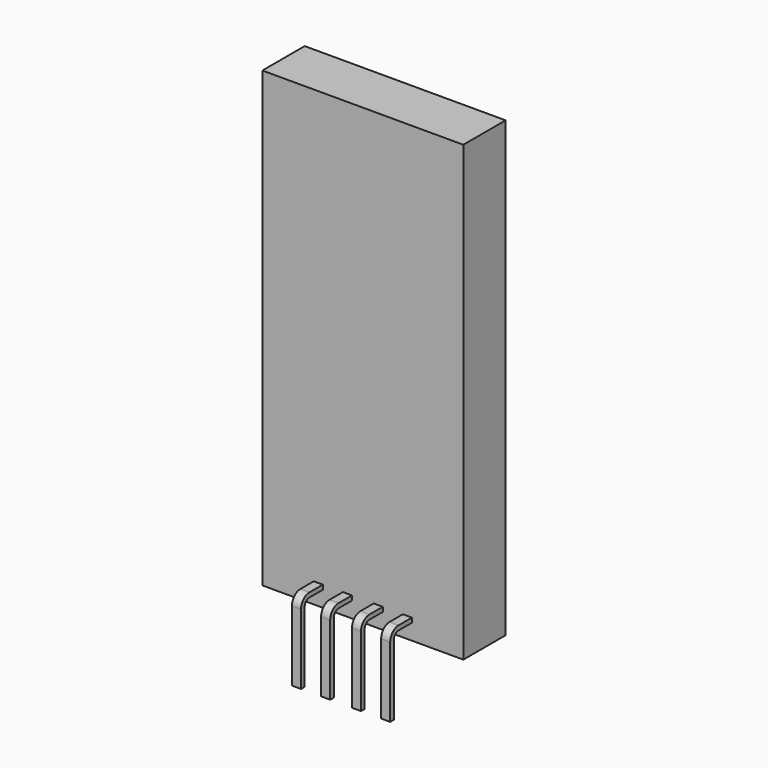
from build123d import *

# Parameters (mm, degrees)
F0_W     = 16.891
F0_H     = 38.1
F1_DEPTH = 4.445
F3_DEPTH = 16.891
F4_W     = 4.318
F4_H     = 3.068709
F4_W_2   = 1.8288
F4_H_2   = 6.30698
F5_DEPTH = 25.4


with BuildPart() as f1:
    # F0 (on Front) → F1 (new body)
    with BuildSketch(Plane.XZ):
        with Locations((8.4455, 19.05)):
            Rectangle(F0_W, F0_H)
    extrude(amount=F1_DEPTH)


with BuildPart() as f3:
    # F2 (on face) → F3 (new body, through all)
    with BuildSketch(Plane.YZ.offset(16.891)):
        with BuildLine():
            Line((-6.731, -5.08), (-6.35, -5.08))
            Line((-6.35, -5.08), (-6.35, 0.822423))
            ThreePointArc((-6.35, 0.822423), (-6.20121, 1.181633), (-5.842, 1.330423))
            Line((-5.842, 1.330423), (-4.445, 1.330423))
            Line((-4.445, 1.330423), (-4.445, 1.711423))
            Line((-4.445, 1.711423), (-5.842, 1.711423))
            ThreePointArc((-5.842, 1.711423), (-6.470618, 1.451041), (-6.731, 0.822423))
            Line((-6.731, 0.822423), (-6.731, -5.08))
        make_face()
    extrude(amount=-F3_DEPTH)

    # F4 (on face) → F5 (cut)
    with BuildSketch(Plane.XZ.offset(4.445)):
        Polygon((17.909975, 3.068709), (16.891, 3.068709), (16.891, 0), (12.573, 0), (12.573, -6.235953), (17.909975, -6.235953), align=None)
        with Locations((14.732, 1.534354)):
            Rectangle(F4_W, F4_H)
        Polygon((-1.018975, -6.235953), (4.318, -6.235953), (4.318, 0), (0, 0), (0, 3.068709), (-1.018975, 3.068709), align=None)
        with Locations((2.159, 1.534354)):
            Rectangle(F4_W, F4_H)
        Polygon((6.7691, 0), (5.08, 0), (5.08, -6.30698), (6.7691, -6.378009), align=None)
        Polygon((5.08, 2.997681), (5.08, 0), (6.7691, 0), (6.7691, 3.210765), align=None)
        with Locations((8.4455, 1.534354)):
            Rectangle(F4_W_2, F4_H)
        Polygon((10.1219, 3.210765), (10.1219, 0), (11.811, 0), (11.811, 2.997681), align=None)
        Polygon((11.811, 0), (10.1219, 0), (10.1219, -6.378009), (11.811, -6.30698), align=None)
        with Locations((8.4455, -3.15349)):
            Rectangle(F4_W_2, F4_H_2)
    extrude(amount=F5_DEPTH, mode=Mode.SUBTRACT)


solid = Compound([f1.part, f3.part])
